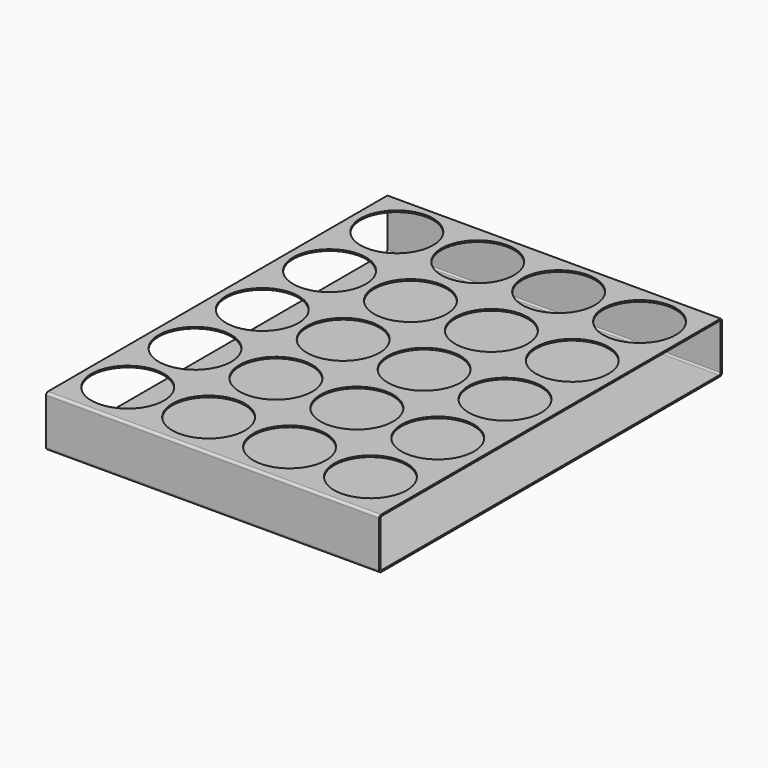
from build123d import *

# Parameters (mm, degrees)
F0_W     = 270
F0_H     = 32
F0_W_2   = 268
F0_H_2   = 30
F1_DEPTH = 210
F2_R     = 22.9
F3_DEPTH = 1
F4_R     = 1.5
F5_R     = 1


with BuildPart() as f1:
    # F0 (on Right) → F1 (new body)
    with BuildSketch(Plane.YZ):
        with Locations((135, -16)):
            Rectangle(F0_W, F0_H)
        with Locations((135, -16)):
            Rectangle(F0_W_2, F0_H_2, mode=Mode.SUBTRACT)
    extrude(amount=F1_DEPTH)

    # F2 (on face) → F3 (cut, through all)
    with BuildSketch(Plane.XY):
        with Locations((27.8, 29.6)):
            Circle(F2_R)
        with Locations((27.8, 82.6)):
            Circle(F2_R)
        with Locations((27.8, 135.6)):
            Circle(F2_R)
        with Locations((27.8, 188.6)):
            Circle(F2_R)
        with Locations((27.8, 241.6)):
            Circle(F2_R)
        with Locations((78.8, 29.6)):
            Circle(F2_R)
        with Locations((78.8, 82.6)):
            Circle(F2_R)
        with Locations((78.8, 135.6)):
            Circle(F2_R)
        with Locations((78.8, 188.6)):
            Circle(F2_R)
        with Locations((78.8, 241.6)):
            Circle(F2_R)
        with Locations((129.8, 29.6)):
            Circle(F2_R)
        with Locations((129.8, 82.6)):
            Circle(F2_R)
        with Locations((129.8, 135.6)):
            Circle(F2_R)
        with Locations((129.8, 188.6)):
            Circle(F2_R)
        with Locations((129.8, 241.6)):
            Circle(F2_R)
        with Locations((180.8, 29.6)):
            Circle(F2_R)
        with Locations((180.8, 82.6)):
            Circle(F2_R)
        with Locations((180.8, 135.6)):
            Circle(F2_R)
        with Locations((180.8, 188.6)):
            Circle(F2_R)
        with Locations((180.8, 241.6)):
            Circle(F2_R)
    extrude(amount=-F3_DEPTH, mode=Mode.SUBTRACT)

    # F4
    f4_edges = [f1.edges().sort_by_distance(p)[0] for p in [
        (105, 270, 0),
        (105, 270, -32),
        (105, 0, -32),
        (105, 0, 0),
    ]]
    fillet(f4_edges, radius=F4_R)

    # F5
    f5_edges = [f1.edges().sort_by_distance(p)[0] for p in [
        (105, 1, -1),
        (105, 1, -31),
        (105, 269, -31),
        (105, 269, -1),
    ]]
    fillet(f5_edges, radius=F5_R)


solid = f1.part
